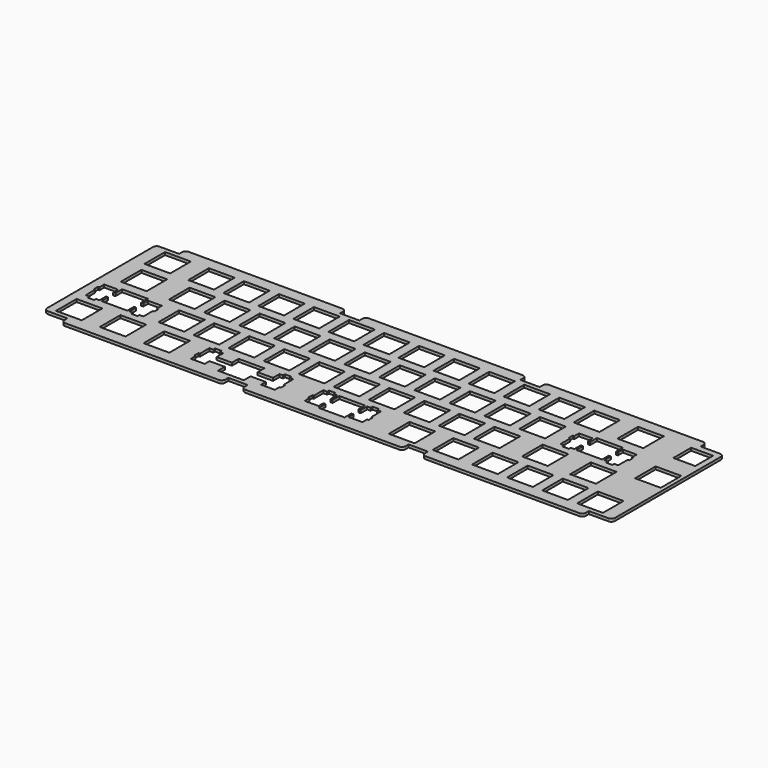
from build123d import *

# Parameters (mm, degrees)
PAD_DEPTH            = 1.5
POCKET001_DEPTH      = 1.501
POCKET002_DEPTH      = 1.501
POCKET003_DEPTH      = 1.501
POCKET004_DEPTH      = 1.501
SKETCH084_W          = 14
SKETCH084_H          = 14
SKETCH084_W_2        = 11.9
SKETCH084_H_2        = 12.1
POCKET007_DEPTH      = 1.501
SKETCH085_W          = 14
SKETCH085_H          = 14
POCKET008_DEPTH      = 1.501
SKETCH086_W          = 14
SKETCH086_H          = 14
POCKET009_DEPTH      = 1.501
SKETCH087_W          = 14
SKETCH087_H          = 14
POCKET010_DEPTH      = 1.501
SKETCH088_W          = 14
SKETCH088_H          = 14
POCKET011_DEPTH      = 1.501
SKETCH089_W          = 14
SKETCH089_H          = 14
POCKET012_DEPTH      = 0.001
POCKET012_DEPTH_BACK = 1.501


with BuildPart() as part:
    # Sketch002 → Pad (new body)
    with BuildSketch(Plane.XY):
        with BuildLine():
            Line((306.6375, -4.65), (306.6375, -76.6))
            ThreePointArc((304.6375, -78.6), (306.051714, -78.014214), (306.6375, -76.6))
            Line((304.6375, -78.6), (294.006, -78.6))
            Line((294.006, -78.6), (294.006, -80.6))
            ThreePointArc((292.006, -82.6), (293.420214, -82.014214), (294.006, -80.6))
            Line((292.006, -82.6), (208.506, -82.6))
            ThreePointArc((206.506, -80.6), (207.091786, -82.014214), (208.506, -82.6))
            Line((206.506, -80.6), (206.506, -78.6))
            Line((206.506, -78.6), (196.006, -78.6))
            Line((196.006, -78.6), (196.006, -80.6))
            ThreePointArc((194.006, -82.6), (195.420214, -82.014214), (196.006, -80.6))
            Line((194.006, -82.6), (110.506, -82.6))
            ThreePointArc((108.506, -80.6), (109.091786, -82.014214), (110.506, -82.6))
            Line((108.506, -80.6), (108.506, -78.6))
            Line((108.506, -78.6), (98.006, -78.6))
            Line((98.006, -78.6), (98.006, -80.6))
            ThreePointArc((96.006, -82.6), (97.420214, -82.014214), (98.006, -80.6))
            Line((96.006, -82.6), (12.506, -82.6))
            ThreePointArc((10.506, -80.6), (11.091786, -82.014214), (12.506, -82.6))
            Line((10.506, -80.6), (10.506, -78.6))
            Line((10.506, -78.6), (-0.125, -78.6))
            ThreePointArc((-2.125, -76.6), (-1.539214, -78.014214), (-0.125, -78.6))
            Line((-2.125, -76.6), (-2.125, -4.65))
            ThreePointArc((-0.125, -2.65), (-1.539214, -3.235786), (-2.125, -4.65))
            Line((10.506, -2.65), (-0.125, -2.65))
            Line((10.506, -2.65), (10.506, -0.65))
            ThreePointArc((12.506, 1.35), (11.091786, 0.764214), (10.506, -0.65))
            Line((12.506, 1.35), (96.006, 1.35))
            ThreePointArc((98.006, -0.65), (97.420214, 0.764214), (96.006, 1.35))
            Line((98.006, -0.65), (98.006, -2.65))
            Line((108.506, -2.65), (98.006, -2.65))
            Line((108.506, -2.65), (108.506, -0.65))
            ThreePointArc((110.506, 1.35), (109.091786, 0.764214), (108.506, -0.65))
            Line((110.506, 1.35), (194.006, 1.35))
            ThreePointArc((196.006, -0.65), (195.420214, 0.764214), (194.006, 1.35))
            Line((196.006, -0.65), (196.006, -2.65))
            Line((206.506, -2.65), (196.006, -2.65))
            Line((206.506, -2.65), (206.506, -0.65))
            ThreePointArc((208.506, 1.35), (207.091786, 0.764214), (206.506, -0.65))
            Line((208.506, 1.35), (292.006, 1.35))
            ThreePointArc((294.006, -0.65), (293.420214, 0.764214), (292.006, 1.35))
            Line((294.006, -0.65), (294.006, -2.65))
            Line((304.6375, -2.65), (294.006, -2.65))
            ThreePointArc((306.6375, -4.65), (306.051714, -3.235786), (304.6375, -2.65))
        make_face()
    extrude(amount=PAD_DEPTH)

    # Sketch050 → Pocket001 (cut, through all)
    with BuildSketch(Plane(origin=(268.794, -24.1, 0), x_dir=(-1, 0, 0), z_dir=(0, 0, 1))):
        Polygon((-8.66775, 7.445375), (-9.4615, 7.445375), (-9.4615, 4.587875), (-8.66775, 4.587875), (-8.66775, 1.3335), (-1.17475, 1.3335), (-1.17475, 4.60375), (0, 4.60375), (0, 0), (14, 0), (14, 4.60375), (15.17475, 4.60375), (15.17475, 1.3335), (22.66775, 1.3335), (22.66775, 4.587875), (23.4615, 4.587875), (23.4615, 7.445375), (22.66775, 7.445375), (22.66775, 13.9065), (20.57225, 13.9065), (20.57225, 15.1765), (17.07975, 15.1765), (17.07975, 13.9065), (15.17475, 13.9065), (15.17475, 9.4615), (14, 9.4615), (14, 14), (0, 14), (0, 9.4615), (-1.17475, 9.4615), (-1.17475, 13.9065), (-3.07975, 13.9065), (-3.07975, 15.1765), (-6.57225, 15.1765), (-6.57225, 13.9065), (-8.66775, 13.9065), align=None)
    extrude(amount=POCKET001_DEPTH, mode=Mode.SUBTRACT)

    # Sketch052 → Pocket002 (cut, through all)
    with BuildSketch(Plane(origin=(25.9063, -43.15, 0), x_dir=(-1, 0, 0), z_dir=(0, 0, 1))):
        Polygon((-8.66775, 7.445375), (-9.4615, 7.445375), (-9.4615, 4.587875), (-8.66775, 4.587875), (-8.66775, 1.3335), (-1.17475, 1.3335), (-1.17475, 4.60375), (0, 4.60375), (0, 0), (14, 0), (14, 4.60375), (15.17475, 4.60375), (15.17475, 1.3335), (22.66775, 1.3335), (22.66775, 4.587875), (23.4615, 4.587875), (23.4615, 7.445375), (22.66775, 7.445375), (22.66775, 13.9065), (20.57225, 13.9065), (20.57225, 15.1765), (17.07975, 15.1765), (17.07975, 13.9065), (15.17475, 13.9065), (15.17475, 9.4615), (14, 9.4615), (14, 14), (0, 14), (0, 9.4615), (-1.17475, 9.4615), (-1.17475, 13.9065), (-3.07975, 13.9065), (-3.07975, 15.1765), (-6.57225, 15.1765), (-6.57225, 13.9065), (-8.66775, 13.9065), align=None)
    extrude(amount=POCKET002_DEPTH, mode=Mode.SUBTRACT)

    # Sketch071 → Pocket003 (cut, through all)
    with BuildSketch(Plane(origin=(90.4875, -76.2, 0), x_dir=(1, 0, 0), z_dir=(0, 0, 1))):
        Polygon((-15.8115, 7.445375), (-16.60525, 7.445375), (-16.60525, 4.587875), (-15.8115, 4.587875), (-15.8115, 1.3335), (-8.3185, 1.3335), (-8.3185, 4.60375), (0, 4.60375), (0, 0), (14, 0), (14, 4.60375), (22.3185, 4.60375), (22.3185, 1.3335), (29.8115, 1.3335), (29.8115, 4.587875), (30.60525, 4.587875), (30.60525, 7.445375), (29.8115, 7.445375), (29.8115, 13.9065), (27.716, 13.9065), (27.716, 15.1765), (24.2235, 15.1765), (24.2235, 13.9065), (22.3185, 13.9065), (22.3185, 9.4615), (14, 9.4615), (14, 14), (0, 14), (0, 9.4615), (-8.3185, 9.4615), (-8.3185, 13.9065), (-10.2235, 13.9065), (-10.2235, 15.1765), (-13.716, 15.1765), (-13.716, 13.9065), (-15.8115, 13.9065), align=None)
    extrude(amount=POCKET003_DEPTH, mode=Mode.SUBTRACT)

    # Sketch072 → Pocket004 (cut, through all)
    with BuildSketch(Plane(origin=(145.256, -76.2, 0), x_dir=(1, 0, 0), z_dir=(0, 0, 1))):
        Polygon((-8.66775, 7.445375), (-9.4615, 7.445375), (-9.4615, 4.587875), (-8.66775, 4.587875), (-8.66775, 1.3335), (-1.17475, 1.3335), (-1.17475, 4.60375), (0, 4.60375), (0, 0), (14, 0), (14, 4.60375), (15.17475, 4.60375), (15.17475, 1.3335), (22.66775, 1.3335), (22.66775, 4.587875), (23.4615, 4.587875), (23.4615, 7.445375), (22.66775, 7.445375), (22.66775, 13.9065), (20.57225, 13.9065), (20.57225, 15.1765), (17.07975, 15.1765), (17.07975, 13.9065), (15.17475, 13.9065), (15.17475, 9.4615), (14, 9.4615), (14, 14), (0, 14), (0, 9.4615), (-1.17475, 9.4615), (-1.17475, 13.9065), (-3.07975, 13.9065), (-3.07975, 15.1765), (-6.57225, 15.1765), (-6.57225, 13.9065), (-8.66775, 13.9065), align=None)
    extrude(amount=POCKET004_DEPTH, mode=Mode.SUBTRACT)

    # Sketch084 → Pocket007 (cut, through all)
    with BuildSketch(Plane(origin=(28.575, -19.05, 0), x_dir=(1, 0, 0), z_dir=(0, 0, 1))):
        with Locations((26.05, 7)):
            Rectangle(SKETCH084_W, SKETCH084_H)
        with Locations((7, 7)):
            Rectangle(SKETCH084_W, SKETCH084_H)
        with Locations((45.1, 7)):
            Rectangle(SKETCH084_W, SKETCH084_H)
        with Locations((64.15, 7)):
            Rectangle(SKETCH084_W, SKETCH084_H)
        with Locations((83.2, 7)):
            Rectangle(SKETCH084_W, SKETCH084_H)
        with Locations((102.25, 7)):
            Rectangle(SKETCH084_W, SKETCH084_H)
        with Locations((121.3, 7)):
            Rectangle(SKETCH084_W, SKETCH084_H)
        with Locations((140.35, 7)):
            Rectangle(SKETCH084_W, SKETCH084_H)
        with Locations((159.4, 7)):
            Rectangle(SKETCH084_W, SKETCH084_H)
        with Locations((178.45, 7)):
            Rectangle(SKETCH084_W, SKETCH084_H)
        with Locations((197.5, 7)):
            Rectangle(SKETCH084_W, SKETCH084_H)
        with Locations((216.55, 7)):
            Rectangle(SKETCH084_W, SKETCH084_H)
        with Locations((268.9375, 7)):
            Rectangle(SKETCH084_W_2, SKETCH084_H_2)
    extrude(amount=POCKET007_DEPTH, mode=Mode.SUBTRACT)

    # Sketch085 → Pocket008 (cut, through all)
    with BuildSketch(Plane(origin=(33.3375, -38.1, 0), x_dir=(1, 0, 0), z_dir=(0, 0, 1))):
        with Locations((26.05, 7)):
            Rectangle(SKETCH085_W, SKETCH085_H)
        with Locations((7, 7)):
            Rectangle(SKETCH085_W, SKETCH085_H)
        with Locations((45.1, 7)):
            Rectangle(SKETCH085_W, SKETCH085_H)
        with Locations((64.15, 7)):
            Rectangle(SKETCH085_W, SKETCH085_H)
        with Locations((83.2, 7)):
            Rectangle(SKETCH085_W, SKETCH085_H)
        with Locations((102.25, 7)):
            Rectangle(SKETCH085_W, SKETCH085_H)
        with Locations((121.3, 7)):
            Rectangle(SKETCH085_W, SKETCH085_H)
        with Locations((140.35, 7)):
            Rectangle(SKETCH085_W, SKETCH085_H)
        with Locations((159.4, 7)):
            Rectangle(SKETCH085_W, SKETCH085_H)
        with Locations((178.45, 7)):
            Rectangle(SKETCH085_W, SKETCH085_H)
        with Locations((197.5, 7)):
            Rectangle(SKETCH085_W, SKETCH085_H)
        with Locations((264.175, 2.2375)):
            Rectangle(SKETCH085_W, SKETCH085_H)
    extrude(amount=POCKET008_DEPTH, mode=Mode.SUBTRACT)

    # Sketch086 → Pocket009 (cut, through all)
    with BuildSketch(Plane(origin=(42.8625, -57.15, 0), x_dir=(1, 0, 0), z_dir=(0, 0, 1))):
        with Locations((26.05, 7)):
            Rectangle(SKETCH086_W, SKETCH086_H)
        with Locations((7, 7)):
            Rectangle(SKETCH086_W, SKETCH086_H)
        with Locations((45.1, 7)):
            Rectangle(SKETCH086_W, SKETCH086_H)
        with Locations((64.15, 7)):
            Rectangle(SKETCH086_W, SKETCH086_H)
        with Locations((83.2, 7)):
            Rectangle(SKETCH086_W, SKETCH086_H)
        with Locations((102.25, 7)):
            Rectangle(SKETCH086_W, SKETCH086_H)
        with Locations((121.3, 7)):
            Rectangle(SKETCH086_W, SKETCH086_H)
        with Locations((140.35, 7)):
            Rectangle(SKETCH086_W, SKETCH086_H)
        with Locations((159.4, 7)):
            Rectangle(SKETCH086_W, SKETCH086_H)
        with Locations((178.45, 7)):
            Rectangle(SKETCH086_W, SKETCH086_H)
        with Locations((230.8375, 7)):
            Rectangle(SKETCH086_W, SKETCH086_H)
    extrude(amount=POCKET009_DEPTH, mode=Mode.SUBTRACT)

    # Sketch087 → Pocket010 (cut, through all)
    with BuildSketch(Plane(origin=(2.38125, -76.2, 0), x_dir=(1, 0, 0), z_dir=(0, 0, 1))):
        with Locations((30.8125, 7)):
            Rectangle(SKETCH087_W, SKETCH087_H)
        with Locations((7, 7)):
            Rectangle(SKETCH087_W, SKETCH087_H)
        with Locations((54.625, 7)):
            Rectangle(SKETCH087_W, SKETCH087_H)
    extrude(amount=POCKET010_DEPTH, mode=Mode.SUBTRACT)

    # Sketch088 → Pocket011 (cut, through all)
    with BuildSketch(Plane(origin=(0, -76.2, 0), x_dir=(1, 0, 0), z_dir=(0, 0, 1))):
        with Locations((190.35625, 7)):
            Rectangle(SKETCH088_W, SKETCH088_H)
        with Locations((214.16875, 7)):
            Rectangle(SKETCH088_W, SKETCH088_H)
        with Locations((235.6, 7)):
            Rectangle(SKETCH088_W, SKETCH088_H)
        with Locations((254.65, 7)):
            Rectangle(SKETCH088_W, SKETCH088_H)
        with Locations((273.7, 7)):
            Rectangle(SKETCH088_W, SKETCH088_H)
        with Locations((292.75, 7)):
            Rectangle(SKETCH088_W, SKETCH088_H)
    extrude(amount=POCKET011_DEPTH, mode=Mode.SUBTRACT)

    # Sketch089 → Pocket012 (cut, two sides)
    with BuildSketch(Plane.XY) as pocket012_sk:
        with Locations((14.14375, -31.1)):
            Rectangle(SKETCH089_W, SKETCH089_H)
        with Locations((11.7625, -12.05)):
            Rectangle(SKETCH089_W, SKETCH089_H)
        with Locations((268.9375, -12.05)):
            Rectangle(SKETCH089_W, SKETCH089_H)
        with Locations((247.50625, -50.15)):
            Rectangle(SKETCH089_W, SKETCH089_H)
    extrude(amount=-POCKET012_DEPTH, mode=Mode.SUBTRACT)
    extrude(pocket012_sk.sketch, amount=POCKET012_DEPTH_BACK, mode=Mode.SUBTRACT)


solid = part.part
